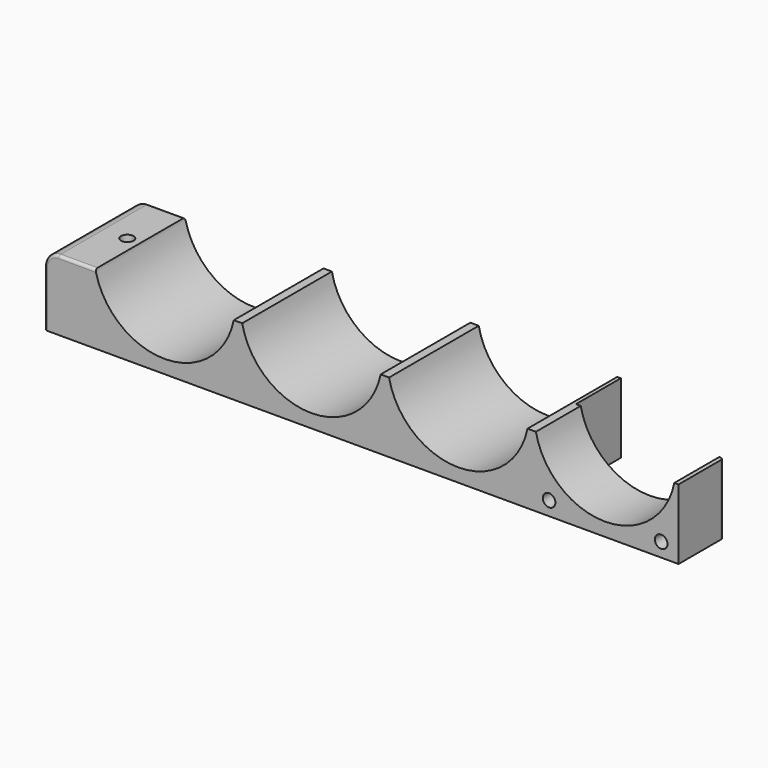
from build123d import *

# Parameters (mm, degrees)
F0_R     = 2.25
F1_DEPTH = 25
F3_DEPTH = 40.001
F4_R     = 2.25
F5_DEPTH = 20.001
F6_R     = 5
F7_R     = 1
F8_R     = 1


with BuildPart() as f1:
    # F0 (on Top) → F1 (new body)
    with BuildSketch(Plane.XY):
        Polygon((-113.1, -20), (113.1, -20), (113.1, 0), (60.5, 0), (60.5, 20), (-113.1, 20), align=None)
        with Locations((-99.6, 0)):
            Circle(F0_R, mode=Mode.SUBTRACT)
    extrude(amount=F1_DEPTH)

    # F2 (on face) → F3 (cut, through all)
    with BuildSketch(Plane.XZ.offset(20)):
        with BuildLine():
            Line((-45.1, 30), (-95.5, 30))
            ThreePointArc((-95.5, 30), (-70.3, 4.8), (-45.1, 30))
        make_face()
        with BuildLine():
            Line((7.3, 30), (-43.1, 30))
            ThreePointArc((-43.1, 30), (-17.9, 4.8), (7.3, 30))
        make_face()
        with BuildLine():
            Line((59.7, 30), (9.3, 30))
            ThreePointArc((9.3, 30), (34.5, 4.8), (59.7, 30))
        make_face()
        with BuildLine():
            Line((112.1, 30), (61.7, 30))
            ThreePointArc((61.7, 30), (86.9, 4.8), (112.1, 30))
        make_face()
    extrude(amount=-F3_DEPTH, mode=Mode.SUBTRACT)

    # F4 (on face) → F5 (cut, through all)
    with BuildSketch(Plane(origin=(0, 0, 0), x_dir=(-1, 0, 0), z_dir=(0, 1, 0))):
        with Locations((-66.9, 5)):
            Circle(F4_R)
        with Locations((-106.9, 5)):
            Circle(F4_R)
    extrude(amount=-F5_DEPTH, mode=Mode.SUBTRACT)

    # F6
    f6_edges = [f1.edges().sort_by_distance(p)[0] for p in [
        (-113.1, 0, 25),
    ]]
    fillet(f6_edges, radius=F6_R)

    # F7
    f7_edges = [f1.edges().sort_by_distance(p)[0] for p in [
        (113.1, 0, 12.5),
    ]]
    fillet(f7_edges, radius=F7_R)

    # F8
    f8_edges = [f1.edges().sort_by_distance(p)[0] for p in [
        (-113.1, 20, 10),
        (-111.635534, 20, 23.535534),
        (-101.549494, 20, 25),
        (-113.1, -20, 10),
        (-111.635534, -20, 23.535534),
        (-101.549494, -20, 25),
    ]]
    fillet(f8_edges, radius=F8_R)


solid = f1.part
